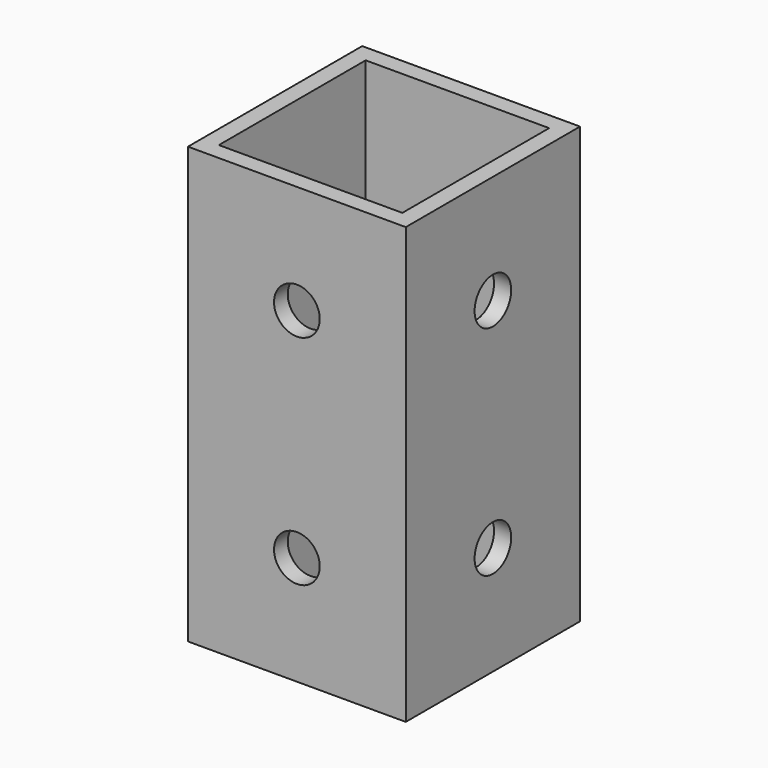
from build123d import *

# Parameters (mm, degrees)
BOX001_W                = 32.1
BOX001_H                = 32.1
BOX001_DEPTH            = 38.1
CYLINDER001_R           = 4
CYLINDER001_DEPTH       = 38.1
CYLINDER001_PITCH_ANGLE = 90
CYLINDER_R              = 4
CYLINDER_DEPTH          = 38.1
CYLINDER_ROLL_ANGLE     = 90
BOX_W                   = 38.1
BOX_H                   = 38.1
BOX_DEPTH               = 38.1
FILLET_R                = 1
BOX003_W                = 32.1
BOX003_H                = 32.1
BOX003_DEPTH            = 38.1
CYLINDER003_R           = 4
CYLINDER003_DEPTH       = 38.1
CYLINDER003_PITCH_ANGLE = 90
CYLINDER002_R           = 4
CYLINDER002_DEPTH       = 38.1
CYLINDER002_ROLL_ANGLE  = 90
BOX002_W                = 38.1
BOX002_H                = 38.1
BOX002_DEPTH            = 38.1
FILLET001_R             = 1


with BuildPart() as cube001:
    # Box001 → Box001 (new body)
    with BuildSketch(Plane(origin=(3, 3, 0), x_dir=(1, 0, 0), z_dir=(0, 0, 1))):
        with Locations((16.05, 16.05)):
            Rectangle(BOX001_W, BOX001_H)
    extrude(amount=BOX001_DEPTH)


with BuildPart() as cylinder001:
    # Cylinder001 → Cylinder001 (new body)
    with BuildSketch(Plane.XY):
        Circle(CYLINDER001_R)
    extrude(amount=CYLINDER001_DEPTH)


with BuildPart() as cylinder001_1:
    # Cylinder001 pitch: moved
    add(cylinder001.part.rotate(Axis((0, 0, 0), (0, 1, 0)), CYLINDER001_PITCH_ANGLE))


with BuildPart() as cylinder001_2:
    # Cylinder001 placement: moved
    add(cylinder001_1.part.moved(Location((0, 19.05, 19.05))))


with BuildPart() as cylinder:
    # Cylinder → Cylinder (new body)
    with BuildSketch(Plane.XY):
        Circle(CYLINDER_R)
    extrude(amount=CYLINDER_DEPTH)


with BuildPart() as cylinder_1:
    # Cylinder roll: moved
    add(cylinder.part.rotate(Axis((0, 0, 0), (1, 0, 0)), CYLINDER_ROLL_ANGLE))


with BuildPart() as cylinder_2:
    # Cylinder placement: moved
    add(cylinder_1.part.moved(Location((19.05, 38.1, 19.05))))


with BuildPart() as cut002:
    # Box → Box (new body)
    with BuildSketch(Plane.XY):
        with Locations((19.05, 19.05)):
            Rectangle(BOX_W, BOX_H)
    extrude(amount=BOX_DEPTH)

    # Cut: cut Cylinder
    add(cylinder_2.part, mode=Mode.SUBTRACT)

    # Cut001: cut Cylinder001
    add(cylinder001_2.part, mode=Mode.SUBTRACT)

    # Cut002: cut Cube001
    add(cube001.part, mode=Mode.SUBTRACT)


with BuildPart() as fillet_body:
    # Fillet base: copy of Cut002
    add(cut002.part)

    # Fillet
    fillet_edges = [fillet_body.edges().sort_by_distance(p)[0] for p in [
        (0, 38.1, 19.05),
        (0, 0, 19.05),
        (38.1, 38.1, 19.05),
        (38.1, 0, 19.05),
    ]]
    fillet(fillet_edges, radius=FILLET_R)


with BuildPart() as cube003:
    # Box003 → Box003 (new body)
    with BuildSketch(Plane(origin=(3, 3, 0), x_dir=(1, 0, 0), z_dir=(0, 0, 1))):
        with Locations((16.05, 16.05)):
            Rectangle(BOX003_W, BOX003_H)
    extrude(amount=BOX003_DEPTH)


with BuildPart() as cylinder003:
    # Cylinder003 → Cylinder003 (new body)
    with BuildSketch(Plane.XY):
        Circle(CYLINDER003_R)
    extrude(amount=CYLINDER003_DEPTH)


with BuildPart() as cylinder003_1:
    # Cylinder003 pitch: moved
    add(cylinder003.part.rotate(Axis((0, 0, 0), (0, 1, 0)), CYLINDER003_PITCH_ANGLE))


with BuildPart() as cylinder003_2:
    # Cylinder003 placement: moved
    add(cylinder003_1.part.moved(Location((0, 19.05, 19.05))))


with BuildPart() as cylinder002:
    # Cylinder002 → Cylinder002 (new body)
    with BuildSketch(Plane.XY):
        Circle(CYLINDER002_R)
    extrude(amount=CYLINDER002_DEPTH)


with BuildPart() as cylinder002_1:
    # Cylinder002 roll: moved
    add(cylinder002.part.rotate(Axis((0, 0, 0), (1, 0, 0)), CYLINDER002_ROLL_ANGLE))


with BuildPart() as cylinder002_2:
    # Cylinder002 placement: moved
    add(cylinder002_1.part.moved(Location((19.05, 38.1, 19.05))))


with BuildPart() as cut005:
    # Box002 → Box002 (new body)
    with BuildSketch(Plane.XY):
        with Locations((19.05, 19.05)):
            Rectangle(BOX002_W, BOX002_H)
    extrude(amount=BOX002_DEPTH)

    # Cut003: cut Cylinder002
    add(cylinder002_2.part, mode=Mode.SUBTRACT)

    # Cut004: cut Cylinder003
    add(cylinder003_2.part, mode=Mode.SUBTRACT)

    # Cut005: cut Cube003
    add(cube003.part, mode=Mode.SUBTRACT)


with BuildPart() as cut005_1:
    # Cut005 placement: moved
    add(cut005.part.moved(Location((0, 0, 38.1))))


with BuildPart() as fillet001:
    # Fillet001 base: copy of Cut005
    add(cut005_1.part)

    # Fillet001
    fillet001_edges = [fillet001.edges().sort_by_distance(p)[0] for p in [
        (0, 38.1, 57.15),
        (0, 0, 57.15),
        (38.1, 38.1, 57.15),
        (38.1, 0, 57.15),
    ]]
    fillet(fillet001_edges, radius=FILLET001_R)


with BuildPart() as fusion:
    # Fusion base: copy of Cut002
    add(cut002.part)

    # Fusion: union Fillet body, Cut005, Fillet001
    add(fillet_body.part)
    add(cut005_1.part)
    add(fillet001.part)


solid = fusion.part
